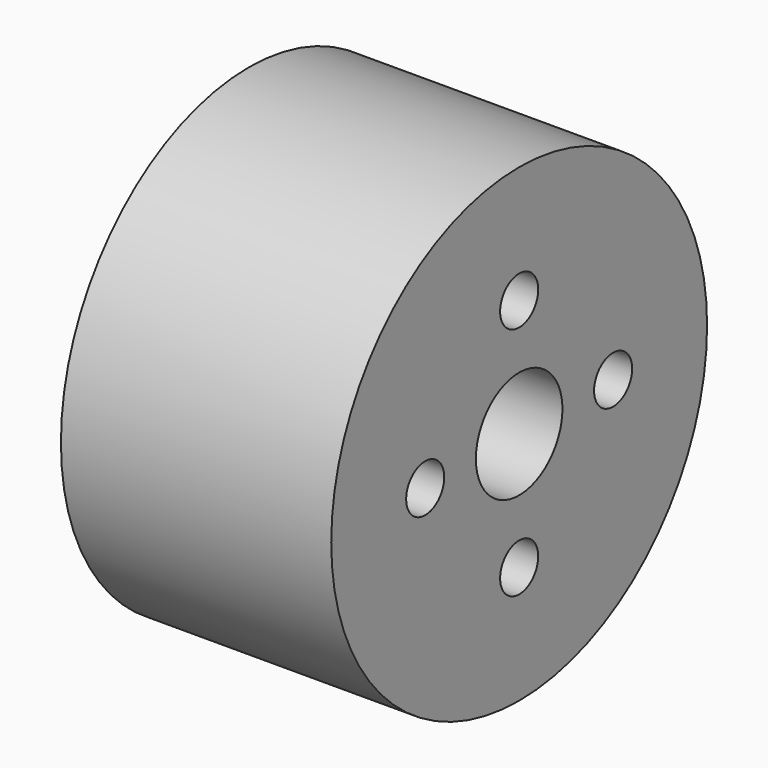
from build123d import *

# Parameters (mm, degrees)
F0_W     = 12.7
F0_H     = 11.0363
F2_R     = 2.54
F2_R_2   = 1.1176
F3_DEPTH = 30.43168


with BuildPart() as f1:
    # F0 (on Front) → F1 (revolve)
    with BuildSketch(Plane.XZ):
        with Locations((-6.876068, 2.367642)):
            Rectangle(F0_W, F0_H)
    revolve(axis=Axis((-6.876068, 0, -3.150508), (-1, 0, 0)))

    # F2 (on face) → F3 (cut)
    with BuildSketch(Plane(origin=(-13.226068, 0, 0), x_dir=(0, -1, 0), z_dir=(-1, 0, 0))):
        with Locations((0, -3.150508)):
            Circle(F2_R)
        with Locations((-5.51815, -3.150508)):
            Circle(F2_R_2)
        with Locations((0, 2.367642)):
            Circle(F2_R_2)
        with Locations((5.51815, -3.150508)):
            Circle(F2_R_2)
        with Locations((0, -8.668658)):
            Circle(F2_R_2)
    extrude(amount=-F3_DEPTH, mode=Mode.SUBTRACT)


solid = f1.part
